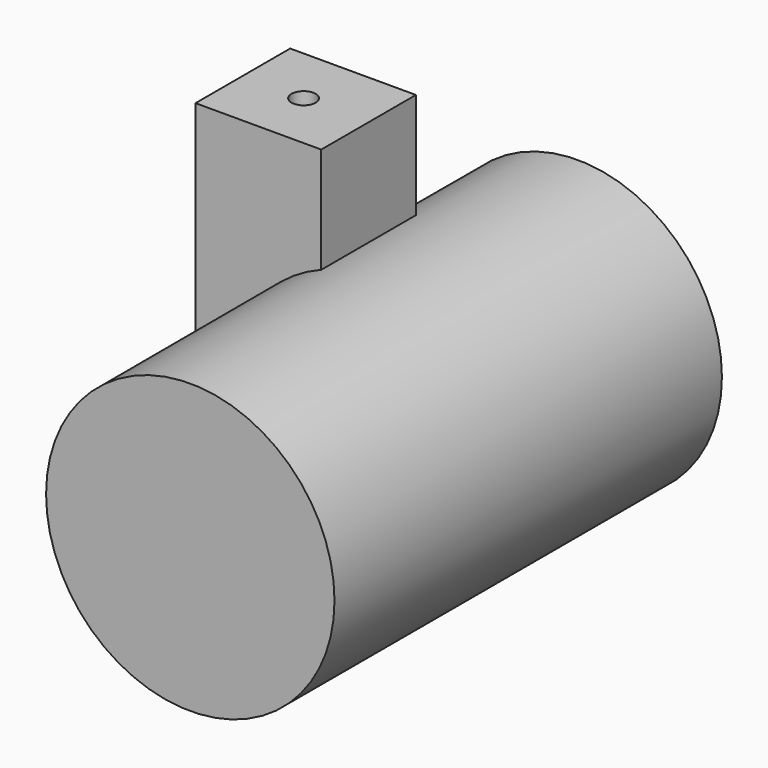
from build123d import *

# Parameters (mm, degrees)
F0_R     = 37.956289
F1_DEPTH = 127.45938
F2_W     = 33.085958
F2_H     = 31.139728
F3_DEPTH = 63.29228
F5_D     = 6.35


with BuildPart() as f1:
    # F0 (on Front) → F1 (new body)
    with BuildSketch(Plane.XZ):
        Circle(F0_R)
    extrude(amount=F1_DEPTH)

    # F2 (on Top) → F3 (join)
    with BuildSketch(Plane.XY):
        with Locations((-30.166611, -51.782193)):
            Rectangle(F2_W, F2_H)
    extrude(amount=F3_DEPTH)

    # F5 (through all)
    with Locations(Plane.XY.offset(63.29228)):
        with Locations((-30.711466, -51.782193)):
            Hole(F5_D / 2)


solid = f1.part
